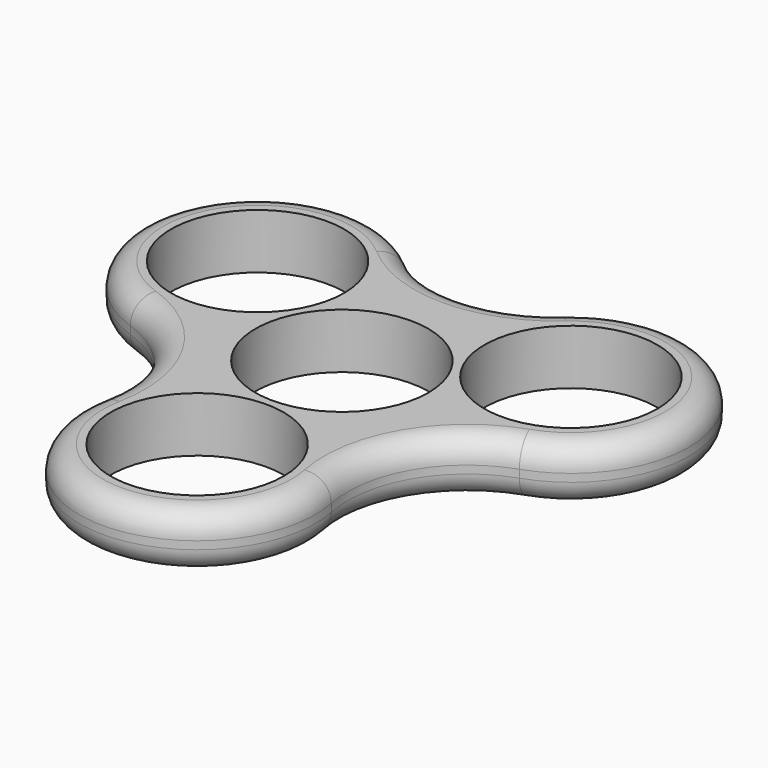
from build123d import *

# Parameters (mm, degrees)
SKETCH_R  = 11
PAD_DEPTH = 7
FILLET_R  = 3


with BuildPart() as part:
    # Sketch → Pad (new body)
    with BuildSketch(Plane.XY):
        with BuildLine():
            ThreePointArc((24.736194, -2.705303), (32.908969, 18.999993), (10.025247, 22.774834))
            ThreePointArc((-10.025222, 22.774812), (1.7e-05, 19), (10.025247, 22.774834))
            ThreePointArc((-10.025222, 22.774812), (-32.908957, 19.000015), (-24.736208, -2.705298))
            ThreePointArc((-14.71096, -20.069529), (-16.454484, -9.499997), (-24.736208, -2.705298))
            ThreePointArc((-14.71096, -20.069529), (-4e-06, -38), (14.710962, -20.069538))
            ThreePointArc((24.736194, -2.705303), (16.454478, -9.500007), (14.710962, -20.069538))
        make_face()
        with Locations((-19.918584, 11.5)):
            Circle(SKETCH_R, mode=Mode.SUBTRACT)
        Circle(SKETCH_R, mode=Mode.SUBTRACT)
        with Locations((19.918584, 11.5)):
            Circle(SKETCH_R, mode=Mode.SUBTRACT)
        with Locations((0, -23)):
            Circle(SKETCH_R, mode=Mode.SUBTRACT)
    extrude(amount=PAD_DEPTH)

    # Fillet
    fillet_edges = [part.edges().sort_by_distance(p)[0] for p in [
        (32.908969, 18.999993, 0),
        (32.908969, 18.999993, 7),
    ]]
    fillet(fillet_edges, radius=FILLET_R)


solid = part.part
